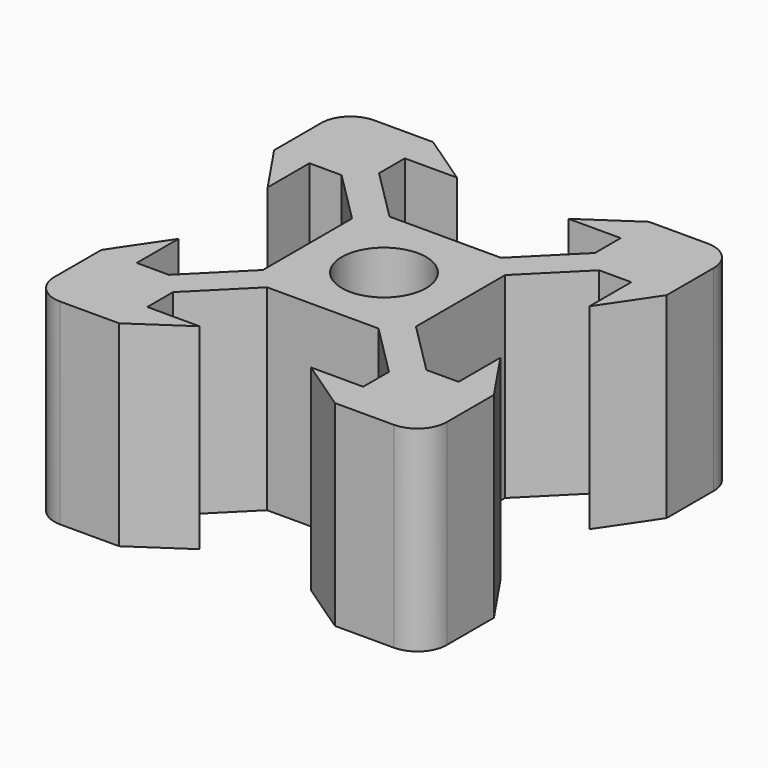
from build123d import *

# Parameters (mm, degrees)
F0_R     = 2.15
F1_DEPTH = 10
F3_DEPTH = 10


with BuildPart() as f1:
    # F0 (on Top) → F1 (new body)
    with BuildSketch(Plane.XY):
        with BuildLine():
            Line((-5.5, 10), (-8.5, 10))
            ThreePointArc((-8.5, 10), (-9.56066, 9.56066), (-10, 8.5))
            Line((-10, 8.5), (-10, 5.5))
            Line((-10, 5.5), (-8.2, 2.84))
            Line((-8.2, 2.84), (-8.2, -2.84))
            Line((-8.2, -2.84), (-10, -5.5))
            Line((-10, -5.5), (-10, -8.5))
            ThreePointArc((-10, -8.5), (-9.56066, -9.56066), (-8.5, -10))
            Line((-8.5, -10), (-5.5, -10))
            Line((-5.5, -10), (-2.84, -8.2))
            Line((-2.84, -8.2), (2.84, -8.2))
            Line((2.84, -8.2), (5.5, -10))
            Line((5.5, -10), (8.5, -10))
            ThreePointArc((8.5, -10), (9.56066, -9.56066), (10, -8.5))
            Line((10, -8.5), (10, -5.5))
            Line((10, -5.5), (8.2, -2.84))
            Line((8.2, -2.84), (8.2, 2.84))
            Line((8.2, 2.84), (10, 5.5))
            Line((10, 5.5), (10, 8.5))
            ThreePointArc((10, 8.5), (9.56066, 9.56066), (8.5, 10))
            Line((8.5, 10), (5.5, 10))
            Line((5.5, 10), (2.84, 8.2))
            Line((2.84, 8.2), (-2.84, 8.2))
            Line((-2.84, 8.2), (-5.5, 10))
        make_face()
        Circle(F0_R, mode=Mode.SUBTRACT)
    extrude(amount=F1_DEPTH)

    # F2 (on face) → F3 (cut)
    with BuildSketch(Plane.XY.offset(10)):
        Polygon((-8.2, 5.5), (-8.2, 2.84), (-8.2, -2.84), (-8.2, -5.5), (-6.56, -5.5), (-3.9, -2.84), (-3.9, 2.84), (-6.56, 5.5), align=None)
        Polygon((-5.5, -8.2), (-2.84, -8.2), (2.84, -8.2), (5.5, -8.2), (5.5, -6.56), (2.84, -3.9), (-2.84, -3.9), (-5.5, -6.56), align=None)
        Polygon((8.2, -5.5), (8.2, -2.84), (8.2, 2.84), (8.2, 5.5), (6.56, 5.5), (3.9, 2.84), (3.9, -2.84), (6.56, -5.5), align=None)
        Polygon((5.5, 8.2), (2.84, 8.2), (-2.84, 8.2), (-5.5, 8.2), (-5.5, 6.56), (-2.84, 3.9), (2.84, 3.9), (5.5, 6.56), align=None)
    extrude(amount=-F3_DEPTH, mode=Mode.SUBTRACT)


solid = f1.part
